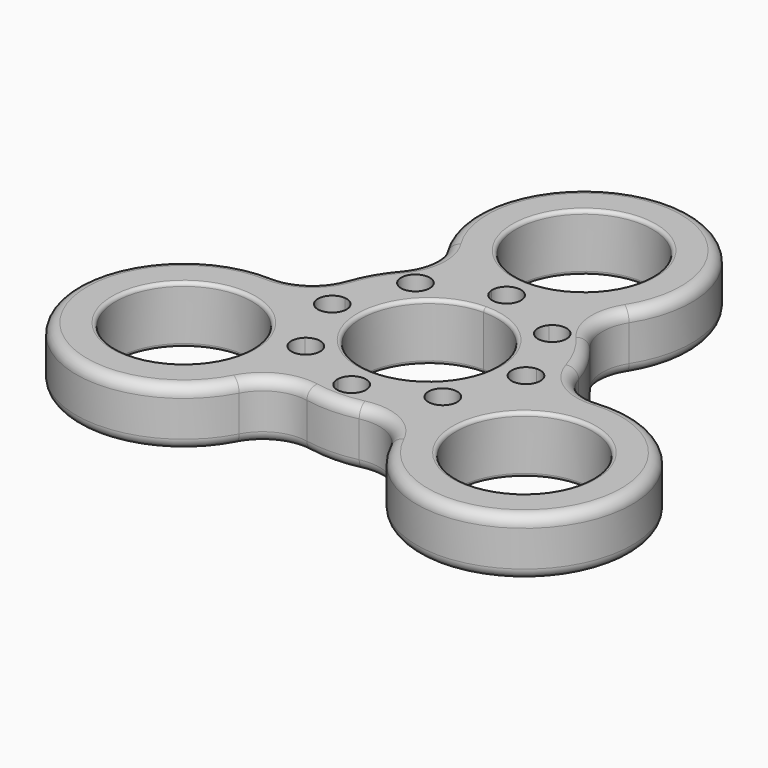
from build123d import *

# Parameters (mm, degrees)
F0_R     = 9.5
F1_DEPTH = 8
F2_R     = 1.5
F3_R     = 1.5
F4_R     = 0.5
F5_R     = 0.5
F6_R     = 0.5


with BuildPart() as f1:
    # F0 (on Top) → F1 (new body)
    with BuildSketch(Plane.XY):
        with BuildLine():
            ThreePointArc((-12.679378, 18.985428), (-11.714568, 15.120333), (-13.24202, 11.441106))
            ThreePointArc((-13.24202, 11.441106), (-15.155445, 8.75), (-16.529298, 5.747373))
            ThreePointArc((-16.529298, 5.747373), (-18.951876, 2.584947), (-22.781552, 1.48795))
            ThreePointArc((-22.781552, 1.48795), (-36.373067, -21), (-10.102174, -20.473378))
            ThreePointArc((-10.102174, -20.473378), (-7.237308, -17.705279), (-3.287278, -17.188479))
            ThreePointArc((-3.287278, -17.188479), (0.315191, -17.497161), (3.904205, -17.058933))
            ThreePointArc((3.904205, -17.058933), (8.113495, -17.545927), (11.079253, -20.572404))
            ThreePointArc((11.079253, -20.572404), (37.672105, -21.75), (23.355851, 0.691287))
            ThreePointArc((23.355851, 0.691287), (19.251966, 1.746471), (16.725572, 5.148325))
            ThreePointArc((16.725572, 5.148325), (15.310582, 8.475617), (13.24202, 11.441106))
            ThreePointArc((13.24202, 11.441106), (11.714568, 15.120333), (12.679378, 18.985428))
            ThreePointArc((12.679378, 18.985428), (0, 42), (-12.679378, 18.985428))
        make_face()
        with Locations((-23.382686, -13.5)):
            Circle(F0_R, mode=Mode.SUBTRACT)
        with BuildLine():
            ThreePointArc((-8.030857, 10.851513), (-5.166226, 12.472374), (-1.994505, 13.351852))
            ThreePointArc((-1.994505, 13.351852), (-0.074125, 15.498626), (2, 13.5))
            ThreePointArc((2, 13.5), (1.998626, 13.425875), (1.994505, 13.351852))
            ThreePointArc((1.994505, 13.351852), (5.165624, 12.472623), (8.029808, 10.852289))
            ThreePointArc((8.029808, 10.852289), (10.237758, 11.404298), (11.532697, 9.532697))
            ThreePointArc((11.532697, 9.532697), (11.354672, 8.707829), (10.852289, 8.029808))
            ThreePointArc((10.852289, 8.029808), (12.472623, 5.165624), (13.351852, 1.994505))
            ThreePointArc((13.351852, 1.994505), (14.860828, 1.465656), (15.5, 0))
            ThreePointArc((15.5, 0), (14.860828, -1.465656), (13.351852, -1.994505))
            ThreePointArc((13.351852, -1.994505), (12.472374, -5.166226), (10.851513, -8.030857))
            ThreePointArc((10.851513, -8.030857), (11.364065, -8.712618), (11.545942, -9.545942))
            ThreePointArc((11.545942, -9.545942), (10.2423, -11.420798), (8.030857, -10.851513))
            ThreePointArc((8.030857, -10.851513), (5.166226, -12.472374), (1.994505, -13.351852))
            ThreePointArc((1.994505, -13.351852), (1.998626, -13.425875), (2, -13.5))
            ThreePointArc((2, -13.5), (-0.074125, -15.498626), (-1.994505, -13.351852))
            ThreePointArc((-1.994505, -13.351852), (-5.166226, -12.472374), (-8.030857, -10.851513))
            ThreePointArc((-8.030857, -10.851513), (-10.960155, -10.960155), (-10.851513, -8.030857))
            ThreePointArc((-10.851513, -8.030857), (-12.472374, -5.166226), (-13.351852, -1.994505))
            ThreePointArc((-13.351852, -1.994505), (-15.5, 0), (-13.351852, 1.994505))
            ThreePointArc((-13.351852, 1.994505), (-12.472374, 5.166226), (-10.851513, 8.030857))
            ThreePointArc((-10.851513, 8.030857), (-10.960155, 10.960155), (-8.030857, 10.851513))
        make_face(mode=Mode.SUBTRACT)
        with Locations((24.681724, -14.25)):
            Circle(F0_R, mode=Mode.SUBTRACT)
        with Locations((0, 27)):
            Circle(F0_R, mode=Mode.SUBTRACT)
        with BuildLine():
            ThreePointArc((1.994505, 13.351852), (1.360828, 12.034344), (0, 11.5))
            ThreePointArc((0, 11.5), (-1.360828, 12.034344), (-1.994505, 13.351852))
            ThreePointArc((-1.994505, 13.351852), (-5.166226, 12.472374), (-8.030857, 10.851513))
            ThreePointArc((-8.030857, 10.851513), (-7.671086, 10.2423), (-7.545942, 9.545942))
            ThreePointArc((-7.545942, 9.545942), (-8.712618, 7.727818), (-10.851513, 8.030857))
            ThreePointArc((-10.851513, 8.030857), (-12.472374, 5.166226), (-13.351852, 1.994505))
            ThreePointArc((-13.351852, 1.994505), (-12.034344, 1.360828), (-11.5, 0))
            ThreePointArc((-11.5, 0), (-12.034344, -1.360828), (-13.351852, -1.994505))
            ThreePointArc((-13.351852, -1.994505), (-12.472374, -5.166226), (-10.851513, -8.030857))
            ThreePointArc((-10.851513, -8.030857), (-8.712618, -7.727818), (-7.545942, -9.545942))
            ThreePointArc((-7.545942, -9.545942), (-7.671086, -10.2423), (-8.030857, -10.851513))
            ThreePointArc((-8.030857, -10.851513), (-5.166226, -12.472374), (-1.994505, -13.351852))
            ThreePointArc((-1.994505, -13.351852), (0, -11.5), (1.994505, -13.351852))
            ThreePointArc((1.994505, -13.351852), (5.166226, -12.472374), (8.030857, -10.851513))
            ThreePointArc((8.030857, -10.851513), (8.131728, -8.131728), (10.851513, -8.030857))
            ThreePointArc((10.851513, -8.030857), (12.472374, -5.166226), (13.351852, -1.994505))
            ThreePointArc((13.351852, -1.994505), (11.5, 0), (13.351852, 1.994505))
            ThreePointArc((13.351852, 1.994505), (12.472623, 5.165624), (10.852289, 8.029808))
            ThreePointArc((10.852289, 8.029808), (8.118484, 8.118484), (8.029808, 10.852289))
            ThreePointArc((8.029808, 10.852289), (5.165624, 12.472623), (1.994505, 13.351852))
        make_face()
        with BuildLine():
            ThreePointArc((0, 9.5), (6.717514, 6.717514), (9.5, 0))
            ThreePointArc((9.5, 0), (-6.717514, -6.717514), (0, 9.5))
        make_face(mode=Mode.SUBTRACT)
    extrude(amount=F1_DEPTH)

    # F2
    f2_edges = [f1.edges().sort_by_distance(p)[0] for p in [
        (-36.373067, -21, 0),
    ]]
    fillet(f2_edges, radius=F2_R)

    # F3
    f3_edges = [f1.edges().sort_by_distance(p)[0] for p in [
        (0, 42, 8),
    ]]
    fillet(f3_edges, radius=F3_R)

    # F4
    f4_edges = [f1.edges().sort_by_distance(p)[0] for p in [
        (-32.882686, -13.5, 8),
    ]]
    fillet(f4_edges, radius=F4_R)

    # F5
    f5_edges = [f1.edges().sort_by_distance(p)[0] for p in [
        (-9.5, 27, 8),
        (0, -9.5, 8),
        (15.181724, -14.25, 8),
    ]]
    fillet(f5_edges, radius=F5_R)

    # F6
    f6_edges = [f1.edges().sort_by_distance(p)[0] for p in [
        (-32.882686, -13.5, 0),
        (0, -9.5, 0),
        (-9.5, 27, 0),
        (15.181724, -14.25, 0),
    ]]
    fillet(f6_edges, radius=F6_R)


solid = f1.part
